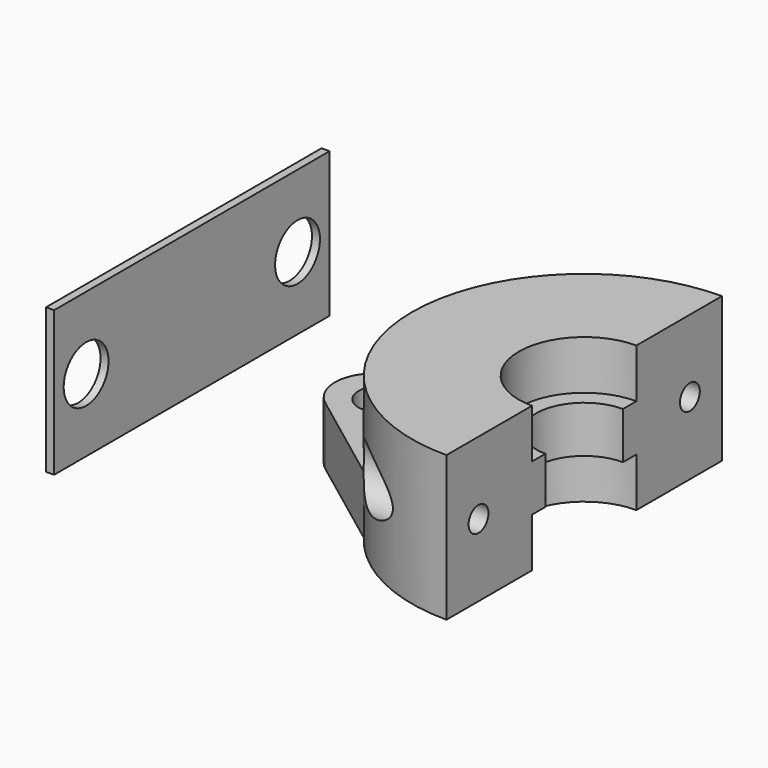
from build123d import *

# Parameters (mm, degrees)
F1_DEPTH   = 18.1
F2_START   = 6.125
F2_DEPTH   = 5.85
F0_R       = 2.79
F3_DEPTH   = 7.25
F5_D       = 3.1
F0_W       = 1
F0_H       = 43
F6_DEPTH   = 18.1
F8_D       = 7
F8_DEPTH   = 42.5
F8_TIP     = 2.1030121666
F8_2_D     = 7
F8_2_DEPTH = 42.5
F8_2_TIP   = 2.1030121666


with BuildPart() as f1:
    # F0 (on Top) → F1 (new body)
    with BuildSketch(Plane.XY):
        with BuildLine():
            Line((0, 8.15), (0, 21.5))
            ThreePointArc((0, 21.5), (-9.5590271472, 19.2581151726), (-17.1245437895, 13))
            ThreePointArc((-17.1245437895, 13), (-21.5, 0), (-17.1245437895, -13))
            ThreePointArc((-17.1245437895, -13), (-9.5590271472, -19.2581151726), (0, -21.5))
            Line((0, -21.5), (0, -8.15))
            ThreePointArc((0, -8.15), (-8.15, 0), (0, 8.15))
        make_face()
    extrude(amount=F1_DEPTH)

    # F0 (on Top) → F2 (join)
    with BuildSketch(Plane.XY.offset(F2_START)):
        with BuildLine():
            Line((0, 6.05), (0, 8.15))
            ThreePointArc((0, 8.15), (-8.15, 0), (0, -8.15))
            Line((0, -8.15), (0, -6.05))
            ThreePointArc((0, -6.05), (-6.05, 0), (0, 6.05))
        make_face()
    extrude(amount=F2_DEPTH)

    # F0 (on Top) → F3 (join)
    with BuildSketch(Plane.XY):
        with BuildLine():
            ThreePointArc((-17.1245437895, -13), (-21.5, 0), (-17.1245437895, 13))
            Line((-17.1245437895, 13), (-29.1245437895, 4))
            Line((-29.1245437895, 4), (-29.1245437895, -4))
            Line((-29.1245437895, -4), (-17.1245437895, -13))
        make_face()
        with Locations((-25.39, 0)):
            Circle(F0_R, mode=Mode.SUBTRACT)
        with BuildLine():
            Line((-29.1245437895, -4), (-29.1245437895, 4))
            ThreePointArc((-29.1245437895, 4), (-31.1245437895, 0), (-29.1245437895, -4))
        make_face()
    extrude(amount=F3_DEPTH)

    # F5 (through all)
    with Locations(Plane.YZ):
        with Locations((-16.5, 9.05), (16.5, 9.05)):
            Hole(F5_D / 2)

    # F8
    with Locations(Plane(origin=(-50, 0, 0), x_dir=(0, -1, 0), z_dir=(-1, 0, 0))):
        with Locations((-16.5, 9.05), (16.5, 9.05)):
            Hole(F8_D / 2, depth=F8_DEPTH)
            with Locations((0, 0, -(F8_DEPTH + F8_TIP / 2))):  # 118° drill point
                Cone(0, F8_D / 2, F8_TIP, mode=Mode.SUBTRACT)


with BuildPart() as f6:
    # F0 (on Top) → F6 (new body)
    with BuildSketch(Plane.XY):
        with Locations((-49.5, 0)):
            Rectangle(F0_W, F0_H)
    extrude(amount=F6_DEPTH)

    # F8#2
    with Locations(Plane(origin=(-50, 0, 0), x_dir=(0, -1, 0), z_dir=(-1, 0, 0))):
        with Locations((-16.5, 9.05), (16.5, 9.05)):
            Hole(F8_2_D / 2, depth=F8_2_DEPTH)
            with Locations((0, 0, -(F8_2_DEPTH + F8_2_TIP / 2))):  # 118° drill point
                Cone(0, F8_2_D / 2, F8_2_TIP, mode=Mode.SUBTRACT)


solid = Compound([f1.part, f6.part])
